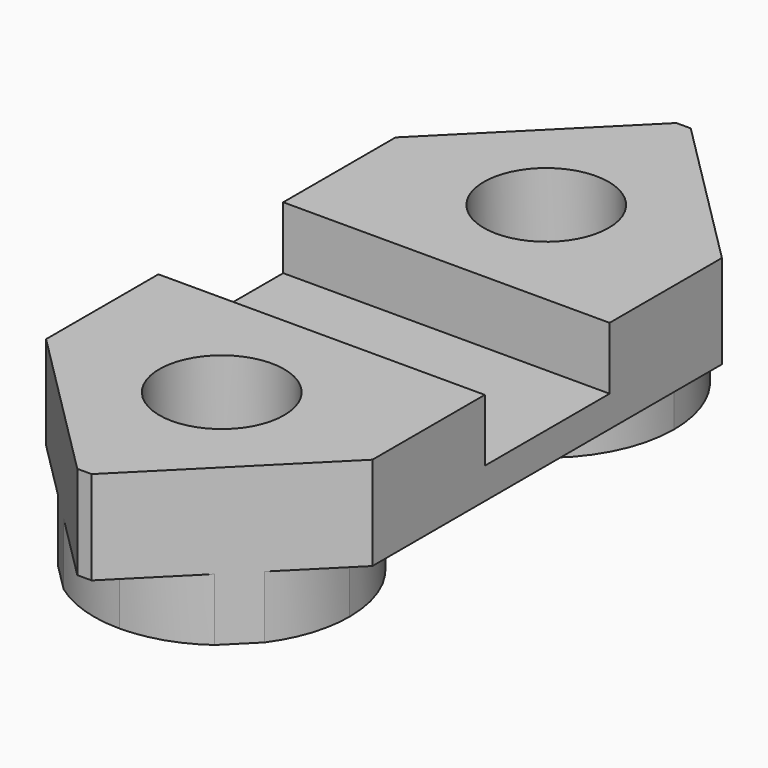
from build123d import *

# Parameters (mm, degrees)
F0_W     = 10.4597713798
F0_H     = 24
F0_W_2   = 10
F0_H_2   = 5
F1_DEPTH = 1
F2_DEPTH = 3
F3_DEPTH = 25
F4_DEPTH = 25
F5_SIZE  = 5
F6_R     = 2
F7_DEPTH = 25
F6_R_2   = 3.5
F8_DEPTH = 2


with BuildPart() as f1:
    # F0 (on Top) → F1 (new body)
    with BuildSketch(Plane.XY):
        Rectangle(F0_W, F0_H)
        Rectangle(F0_W_2, F0_H_2, mode=Mode.SUBTRACT)
        Rectangle(F0_W_2, F0_H_2)
    extrude(amount=F1_DEPTH)

    # F0 (on Top) → F2 (join)
    with BuildSketch(Plane.XY):
        Rectangle(F0_W, F0_H)
        Rectangle(F0_W_2, F0_H_2, mode=Mode.SUBTRACT)
    extrude(amount=F2_DEPTH)

    # F3 (cut): a face of the model
    f3_faces = [f1.faces().sort_by_distance(p)[0] for p in [
        (-5, 0, 2),
    ]]
    extrude(f3_faces, amount=-F3_DEPTH, mode=Mode.SUBTRACT)

    # F4 (cut): a face of the model
    f4_faces = [f1.faces().sort_by_distance(p)[0] for p in [
        (5, 0, 2),
    ]]
    extrude(f4_faces, amount=-F4_DEPTH, mode=Mode.SUBTRACT)

    # F5
    f5_edges = [f1.edges().sort_by_distance(p)[0] for p in [
        (-5.229886, -12, 1.5),
        (5.229886, -12, 1.5),
        (5.229886, 12, 1.5),
        (-5.229886, 12, 1.5),
    ]]
    chamfer(f5_edges, length=F5_SIZE)

    # F6 (on face) → F7 (cut)
    with BuildSketch(Plane(origin=(0, 0, 0), x_dir=(1, 0, 0), z_dir=(0, 0, -1))):
        with BuildLine():
            ThreePointArc((2, 6.5), (1.4142135624, 7.9142135624), (0, 8.5))
            ThreePointArc((0, 8.5), (-1.4142135624, 5.0857864376), (2, 6.5))
        make_face()
        with Locations((0, -6.5)):
            Circle(F6_R)
    extrude(amount=-F7_DEPTH, mode=Mode.SUBTRACT)

    # F6 (on face) → F8 (join)
    with BuildSketch(Plane(origin=(0, 0, 0), x_dir=(1, 0, 0), z_dir=(0, 0, -1))):
        with BuildLine():
            ThreePointArc((2.4209805773, 9.8089051126), (1.2734773336, 10.3972112441), (0, 10.6))
            ThreePointArc((0, 10.6), (-1.2734773336, 10.3972112441), (-2.4209805773, 9.8089051126))
            Line((-2.4209805773, 9.8089051126), (-3.3089051126, 8.9209805773))
            ThreePointArc((-3.3089051126, 8.9209805773), (-1.2734773336, 2.6027887559), (4.1, 6.5))
            ThreePointArc((4.1, 6.5), (3.8972112441, 7.7734773336), (3.3089051126, 8.9209805773))
            Line((3.3089051126, 8.9209805773), (2.4209805773, 9.8089051126))
        make_face()
        with BuildLine():
            ThreePointArc((3.5, 6.5), (-2.4748737342, 4.0251262658), (0, 10))
            ThreePointArc((0, 10), (2.4748737342, 8.9748737342), (3.5, 6.5))
        make_face(mode=Mode.SUBTRACT)
        with BuildLine():
            Line((2.4209805773, -9.8089051126), (3.3089051126, -8.9209805773))
            ThreePointArc((3.3089051126, -8.9209805773), (3.8972112441, -7.7734773336), (4.1, -6.5))
            ThreePointArc((4.1, -6.5), (-1.2734773336, -2.6027887559), (-3.3089051126, -8.9209805773))
            Line((-3.3089051126, -8.9209805773), (-2.4209805773, -9.8089051126))
            ThreePointArc((-2.4209805773, -9.8089051126), (0, -10.6), (2.4209805773, -9.8089051126))
        make_face()
        with Locations((0, -6.5)):
            Circle(F6_R_2, mode=Mode.SUBTRACT)
    extrude(amount=F8_DEPTH)


solid = f1.part
